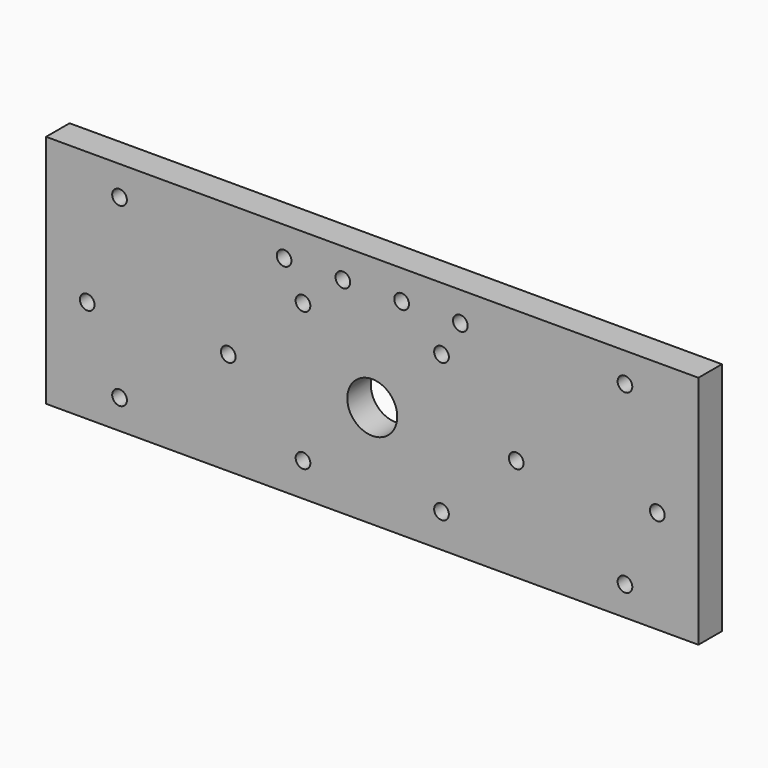
from build123d import *

# Parameters (mm, degrees)
F0_W     = 222
F0_H     = 80
F1_DEPTH = 10
F2_D     = 5
F3_D     = 17
F4_D     = 5
F5_D     = 5
F6_D     = 5


with BuildPart() as f1:
    # F0 (on Front) → F1 (new body)
    with BuildSketch(Plane.XZ):
        Rectangle(F0_W, F0_H)
    extrude(amount=F1_DEPTH)

    # F2 (through all)
    with Locations(Plane(origin=(0, 0, 0), x_dir=(1, 0, 0), z_dir=(0, 1, 0))):
        with Locations((97, 5), (49, 5), (-49, 5), (-97, 5)):
            Hole(F2_D / 2)

    # F3 (through all)
    with Locations(Plane(origin=(0, 0, 0), x_dir=(1, 0, 0), z_dir=(0, 1, 0))):
        with Locations((0, 5)):
            Hole(F3_D / 2)

    # F4 (through all)
    with Locations(Plane(origin=(0, 0, 0), x_dir=(1, 0, 0), z_dir=(0, 1, 0))):
        with Locations((-86, -30), (-86, 30), (86, 30), (86, -30)):
            Hole(F4_D / 2)

    # F5 (through all)
    with Locations(Plane(origin=(0, 0, 0), x_dir=(1, 0, 0), z_dir=(0, 1, 0))):
        with Locations((-30, -30), (-10, -30), (10, -30), (30, -30)):
            Hole(F5_D / 2)

    # F6 (through all)
    with Locations(Plane(origin=(0, 0, 0), x_dir=(1, 0, 0), z_dir=(0, 1, 0))):
        with Locations((-23.57, -18.57), (23.57, -18.57), (23.57, 28.57), (-23.57, 28.57)):
            Hole(F6_D / 2)


solid = f1.part
